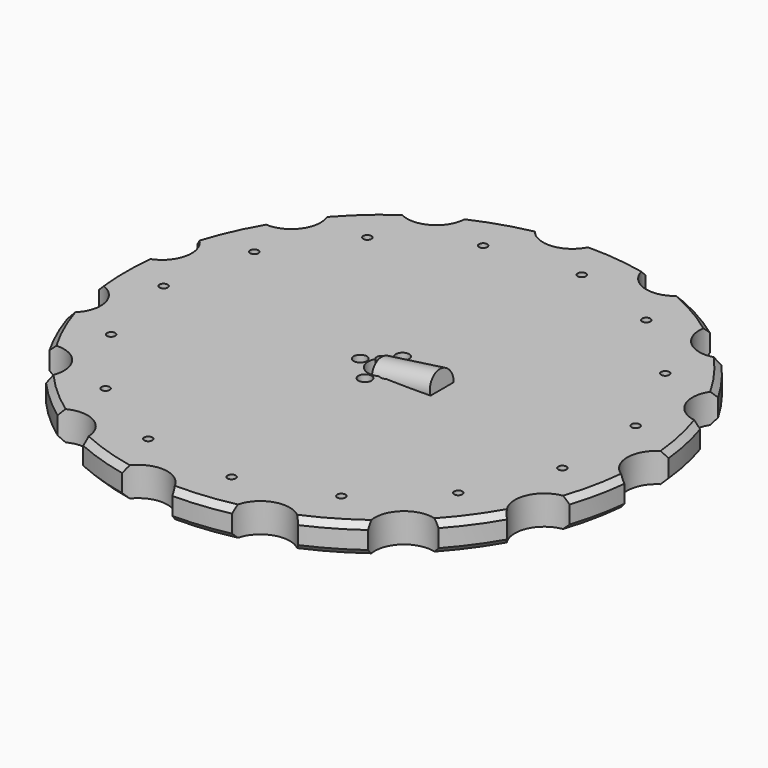
from build123d import *

# Parameters (mm, degrees)
CYLINDER004_R           = 5
CYLINDER004_DEPTH       = 20
CYLINDER004_PITCH_ANGLE = 82
CYLINDER007_R           = 1.7
CYLINDER007_DEPTH       = 15
CYLINDER002_R           = 2.25
CYLINDER002_DEPTH       = 15
ARRAY002_COUNT          = 4
CYLINDER008_R           = 5.3
CYLINDER008_DEPTH       = 12
CYLINDER003_R           = 1.7
CYLINDER003_DEPTH       = 15
CYLINDER006_R           = 1.4
CYLINDER006_DEPTH       = 12
ARRAY001_COUNT          = 15
CYLINDER001_R           = 10
CYLINDER001_DEPTH       = 15
ARRAY_COUNT             = 15
CYLINDER_R              = 90
CYLINDER_DEPTH          = 10
CHAMFER_SIZE            = 2


with BuildPart() as cilindro004:
    # Cylinder004 → Cylinder004 (new body)
    with BuildSketch(Plane.XY):
        Circle(CYLINDER004_R)
    extrude(amount=CYLINDER004_DEPTH)


with BuildPart() as cilindro004_1:
    # Cylinder004 pitch: moved
    add(cilindro004.part.rotate(Axis((0, 0, 0), (0, 1, 0)), CYLINDER004_PITCH_ANGLE))


with BuildPart() as cilindro004_2:
    # Cylinder004 placement: moved
    add(cilindro004_1.part.moved(Location((0, 0, 8))))


with BuildPart() as cilindro002:
    # Cylinder007 → Cylinder007 (new body)
    with BuildSketch(Plane(origin=(3.5, -3.5, 0), x_dir=(1, 0, 0), z_dir=(0, 0, 1))):
        Circle(CYLINDER007_R)
    extrude(amount=CYLINDER007_DEPTH)


with BuildPart() as array002:
    # Cylinder002 → Cylinder002 (new body)
    with BuildSketch(Plane(origin=(8, 0, 0), x_dir=(1, 0, 0), z_dir=(0, 0, 1))):
        Circle(CYLINDER002_R)
    extrude(amount=CYLINDER002_DEPTH)

    # Array002: Array002 ×4 about axis
    array002_axis = Axis((0, 0, 0), (0, 0, 1))


with BuildPart() as array002_1:
    add(array002.part)
    for i in range(1, ARRAY002_COUNT):
        add(array002.part.rotate(array002_axis, i * 360 / ARRAY002_COUNT))


with BuildPart() as eje:
    # Cylinder008 → Cylinder008 (new body)
    with BuildSketch(Plane.XY):
        Circle(CYLINDER008_R)
    extrude(amount=CYLINDER008_DEPTH)


with BuildPart() as fusion:
    # Cylinder003 → Cylinder003 (new body)
    with BuildSketch(Plane(origin=(-3.5, 3.5, 0), x_dir=(1, 0, 0), z_dir=(0, 0, 1))):
        Circle(CYLINDER003_R)
    extrude(amount=CYLINDER003_DEPTH)

    # Fusion: union Cilindro002, Array002, eje
    add(cilindro002.part)
    add(array002_1.part)
    add(eje.part)


with BuildPart() as array001:
    # Cylinder006 → Cylinder006 (new body)
    with BuildSketch(Plane(origin=(-75, 0, 0), x_dir=(1, 0, 0), z_dir=(0, 0, 1))):
        Circle(CYLINDER006_R)
    extrude(amount=CYLINDER006_DEPTH)

    # Array001: Array001 ×15 about axis
    array001_axis = Axis((0, 0, 0), (0, 0, 1))


with BuildPart() as array001_1:
    add(array001.part)
    for i in range(1, ARRAY001_COUNT):
        add(array001.part.rotate(array001_axis, i * 360 / ARRAY001_COUNT))


with BuildPart() as array:
    # Cylinder001 → Cylinder001 (new body)
    with BuildSketch(Plane(origin=(93, 0, 0), x_dir=(1, 0, 0), z_dir=(0, 0, 1))):
        Circle(CYLINDER001_R)
    extrude(amount=CYLINDER001_DEPTH)

    # Array: Array ×15 about axis
    array_axis = Axis((0, 0, 0), (0, 0, 1))


with BuildPart() as array_1:
    add(array.part)
    for i in range(1, ARRAY_COUNT):
        add(array.part.rotate(array_axis, i * 360 / ARRAY_COUNT))


with BuildPart() as cut002:
    # Cylinder → Cylinder (new body)
    with BuildSketch(Plane.XY):
        Circle(CYLINDER_R)
    extrude(amount=CYLINDER_DEPTH)

    # Chamfer
    chamfer_edges = [cut002.edges().sort_by_distance(p)[0] for p in [
        (-90, 0, 10),
        (-90, 0, 0),
    ]]
    chamfer(chamfer_edges, length=CHAMFER_SIZE)

    # Cut: cut Array
    add(array_1.part, mode=Mode.SUBTRACT)

    # Cut001: cut Array001
    add(array001_1.part, mode=Mode.SUBTRACT)

    # Cut002: cut Fusion
    add(fusion.part, mode=Mode.SUBTRACT)


solid = Compound([cilindro004_2.part, cut002.part])
